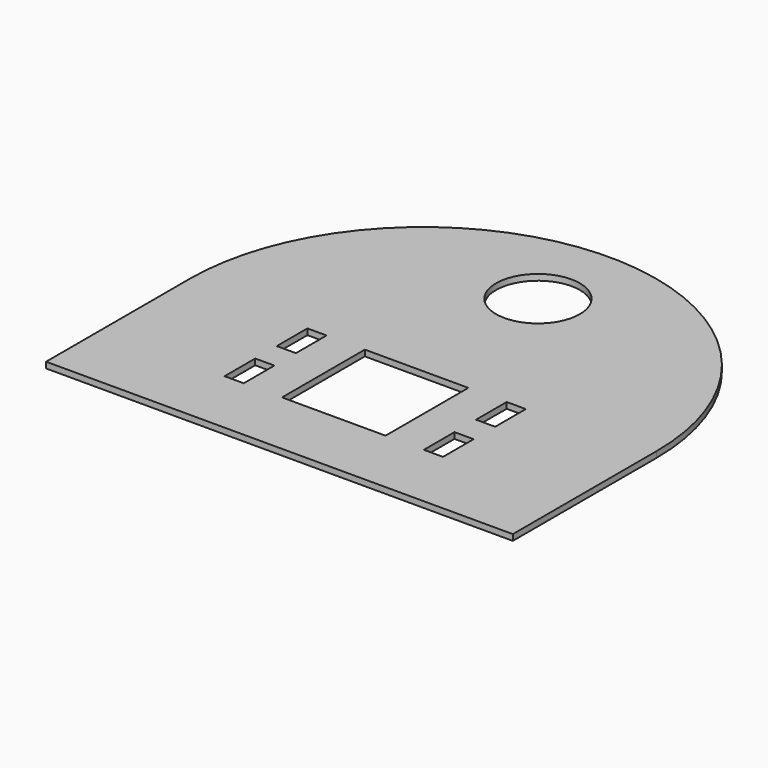
from build123d import *

# Parameters (mm, degrees)
F0_W     = 32
F0_H     = 64
F0_W_2   = 173
F0_H_2   = 173
F0_R     = 70
F1_DEPTH = 10


with BuildPart() as f1:
    # F0 (on Top) → F1 (new body)
    with BuildSketch(Plane.XY):
        with BuildLine():
            Line((-390.059218, 100.001897), (-390.059218, -199.998103))
            Line((-390.059218, -199.998103), (389.940782, -199.998103))
            Line((389.940782, -199.998103), (389.940782, 100.001897))
            ThreePointArc((389.940782, 100.001897), (-0.059218, 490.001897), (-390.059218, 100.001897))
        make_face()
        with Locations((-166.559218, -54.498103)):
            Rectangle(F0_W, F0_H, mode=Mode.SUBTRACT)
        with Locations((-166.559218, 54.501897)):
            Rectangle(F0_W, F0_H, mode=Mode.SUBTRACT)
        with Locations((-0.059218, 0.001897)):
            Rectangle(F0_W_2, F0_H_2, mode=Mode.SUBTRACT)
        with Locations((166.440782, -54.498103)):
            Rectangle(F0_W, F0_H, mode=Mode.SUBTRACT)
        with Locations((166.440782, 54.501897)):
            Rectangle(F0_W, F0_H, mode=Mode.SUBTRACT)
        with Locations((-0.059218, 340.001897)):
            Circle(F0_R, mode=Mode.SUBTRACT)
    extrude(amount=F1_DEPTH)


solid = f1.part
